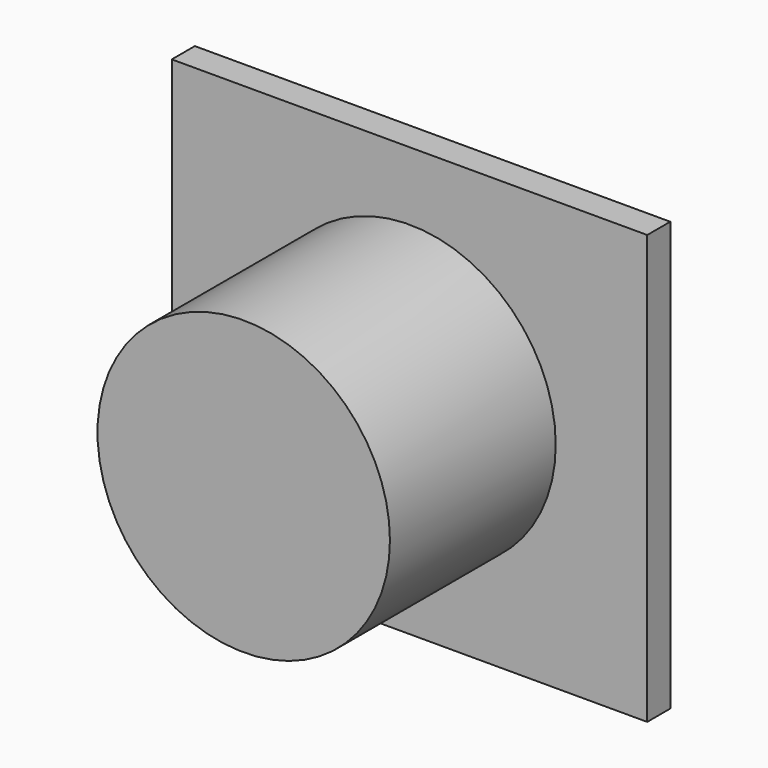
from build123d import *

# Parameters (mm, degrees)
F0_W      = 165.181708
F0_H      = 148.92931
F0_R      = 50.8
F1_DEPTH  = 3
F2_DEPTH  = 75
F1_FACE_W = 165.181708
F1_FACE_H = 148.92931
F3_DEPTH  = 7


with BuildPart() as f1:
    # F0 (on Front) → F1 (new body)
    with BuildSketch(Plane.XZ):
        Rectangle(F0_W, F0_H)
        Circle(F0_R, mode=Mode.SUBTRACT)
        Circle(F0_R)
    extrude(amount=F1_DEPTH)

    # F0 (on Front) → F2 (join)
    with BuildSketch(Plane.XZ):
        Circle(F0_R)
    extrude(amount=F2_DEPTH)

    # F1_face (on face) → F3 (join)
    with BuildSketch(Plane(origin=(0, 0, 0), x_dir=(1, 0, 0), z_dir=(0, 1, 0))):
        Rectangle(F1_FACE_W, F1_FACE_H)
    extrude(amount=F3_DEPTH)


solid = f1.part
